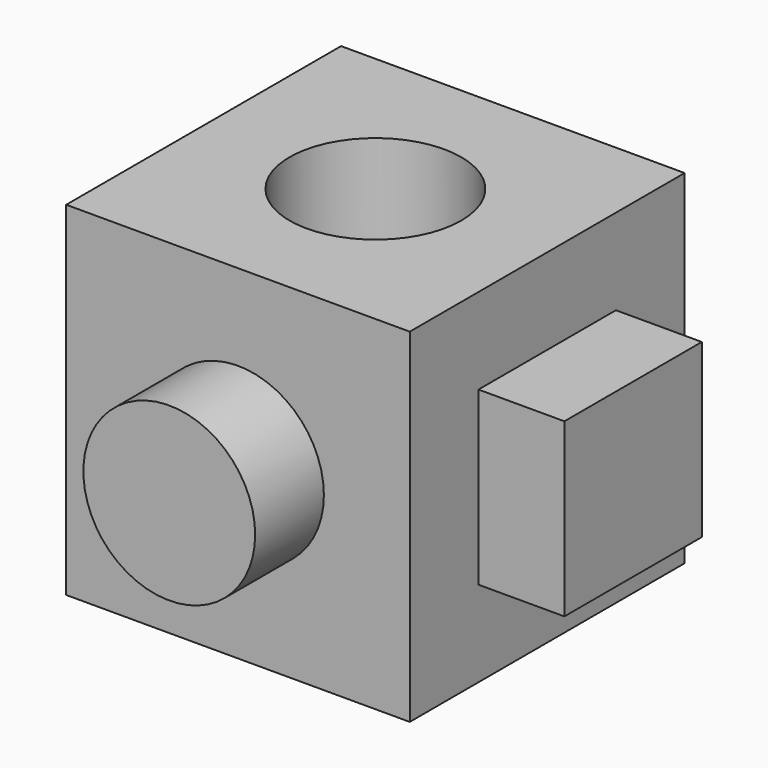
from build123d import *

# Parameters (mm, degrees)
F0_W     = 50.8
F0_H     = 50.8
F1_DEPTH = 50.8
F2_W     = 25.4
F2_H     = 25.4
F3_DEPTH = 12.7
F4_R     = 12.7
F5_DEPTH = 12.7
F6_R     = 12.7
F7_DEPTH = 50.8


with BuildPart() as f1:
    # F0 (on Top) → F1 (new body)
    with BuildSketch(Plane.XY):
        with Locations((25.4, 23.96784)):
            Rectangle(F0_W, F0_H)
    extrude(amount=F1_DEPTH)

    # F2 (on face) → F3 (join)
    with BuildSketch(Plane.YZ.offset(50.8)):
        with Locations((23.96784, 25.4)):
            Rectangle(F2_W, F2_H)
    extrude(amount=F3_DEPTH)

    # F4 (on face) → F5 (join)
    with BuildSketch(Plane.XZ.offset(1.43216)):
        with Locations((25.4, 25.4)):
            Circle(F4_R)
    extrude(amount=F5_DEPTH)

    # F6 (on face) → F7 (cut)
    with BuildSketch(Plane.XY.offset(50.8)):
        with Locations((25.4, 23.96784)):
            Circle(F6_R)
    extrude(amount=-F7_DEPTH, mode=Mode.SUBTRACT)


solid = f1.part
